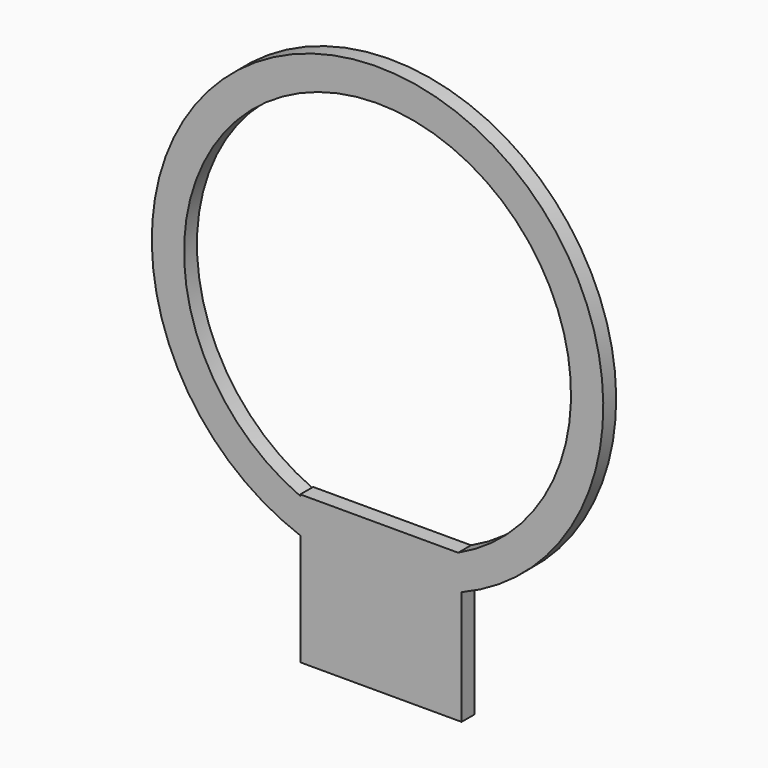
from build123d import *

# Parameters (mm, degrees)
F0_R     = 88.9
F0_R_2   = 76.2
F1_DEPTH = 6.35
F3_DEPTH = 6.35


with BuildPart() as f1:
    # F0 (on Front) → F1 (new body)
    with BuildSketch(Plane.XZ):
        Circle(F0_R)
        Circle(F0_R_2, mode=Mode.SUBTRACT)
    extrude(amount=-F1_DEPTH)

    # F2 (on Front) → F3 (join)
    with BuildSketch(Plane.XZ):
        Polygon((-30.424938, -69.271736), (-30.424938, -104.769359), (-30.424938, -127.499481), (33.092865, -127.499481), (33.092865, -104.408564), (33.092865, -84.904375), (33.092865, -69.271736), align=None)
    extrude(amount=-F3_DEPTH)


solid = f1.part
